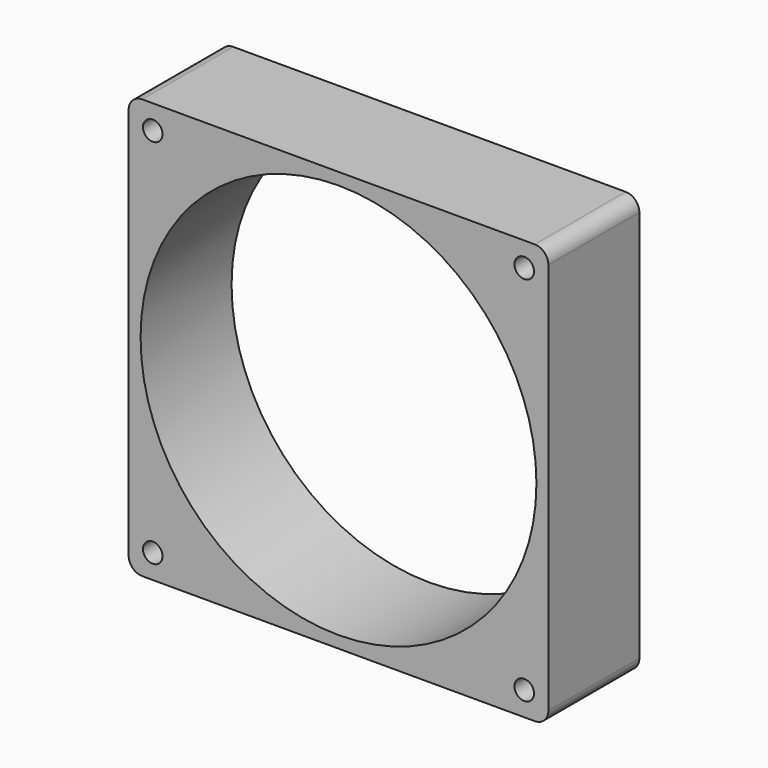
from build123d import *

# Parameters (mm, degrees)
F0_W     = 92.25
F0_H     = 92.25
F1_DEPTH = 25
F2_R     = 43.5
F3_DEPTH = 25.001
F5_D     = 4.3
F6_R     = 3


with BuildPart() as f1:
    # F0 (on Front) → F1 (new body)
    with BuildSketch(Plane.XZ):
        with Locations((46.125, 46.125)):
            Rectangle(F0_W, F0_H)
    extrude(amount=F1_DEPTH)

    # F2 (on face) → F3 (cut, through all)
    with BuildSketch(Plane.XZ.offset(25)):
        with Locations((46.125, 46.125)):
            Circle(F2_R)
    extrude(amount=-F3_DEPTH, mode=Mode.SUBTRACT)

    # F5 (through all)
    with Locations(Plane.XZ.offset(25)):
        with Locations((5.3, 86.95), (5.3, 5.3), (86.95, 5.3), (86.95, 86.95)):
            Hole(F5_D / 2)

    # F6
    f6_edges = [f1.edges().sort_by_distance(p)[0] for p in [
        (92.25, -12.5, 92.25),
        (0, -12.5, 92.25),
        (0, -12.5, 0),
        (92.25, -12.5, 0),
    ]]
    fillet(f6_edges, radius=F6_R)


solid = f1.part
